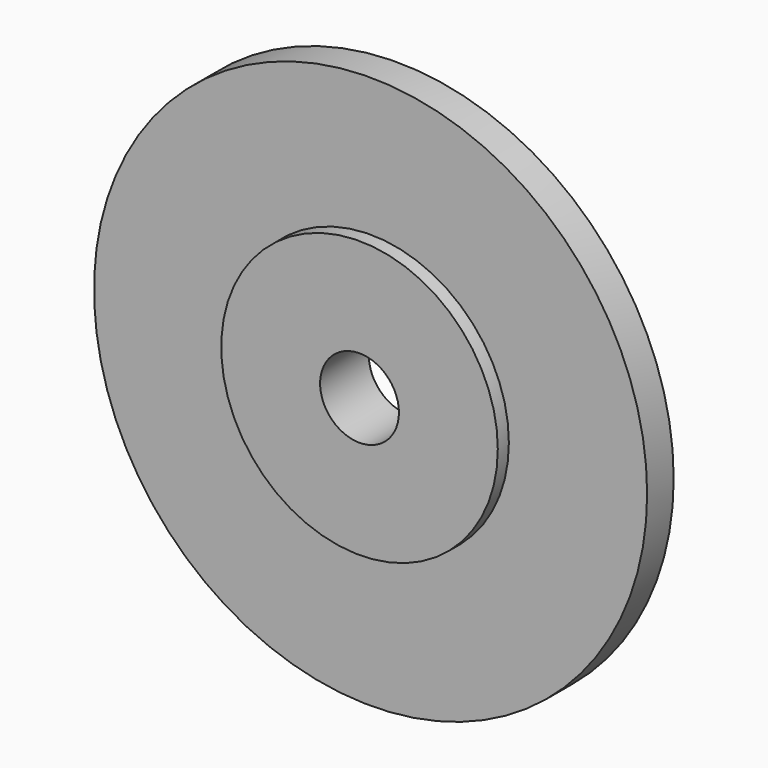
from build123d import *

# Parameters (mm, degrees)
F0_R     = 5
F1_DEPTH = 1.1
F0_R_2   = 10
F2_DEPTH = 0.6
F3_DEPTH = 0.6
F4_DEPTH = 1.1
F7_D     = 2.85
F7_DEPTH = 2.5
F7_TIP   = 0.8562263821


with BuildPart() as f1:
    # F0 (on Front) → F1 (new body)
    with BuildSketch(Plane.XZ):
        Circle(F0_R)
    extrude(amount=F1_DEPTH)

    # F0 (on Front) → F2 (join)
    with BuildSketch(Plane.XZ):
        Circle(F0_R_2)
        Circle(F0_R, mode=Mode.SUBTRACT)
    extrude(amount=F2_DEPTH)

    # F0 (on Front) → F3 (join)
    with BuildSketch(Plane.XZ):
        Circle(F0_R_2)
        Circle(F0_R, mode=Mode.SUBTRACT)
    extrude(amount=-F3_DEPTH)

    # F0 (on Front) → F4 (join)
    with BuildSketch(Plane.XZ):
        Circle(F0_R)
    extrude(amount=-F4_DEPTH)

    # F7
    with Locations(Plane(origin=(0, 1.1, 0), x_dir=(-1, 0, 0), z_dir=(0, 1, 0))):
        with Locations((0, 0)):
            Hole(F7_D / 2, depth=F7_DEPTH)
            with Locations((0, 0, -(F7_DEPTH + F7_TIP / 2))):  # 118° drill point
                Cone(0, F7_D / 2, F7_TIP, mode=Mode.SUBTRACT)


solid = f1.part
